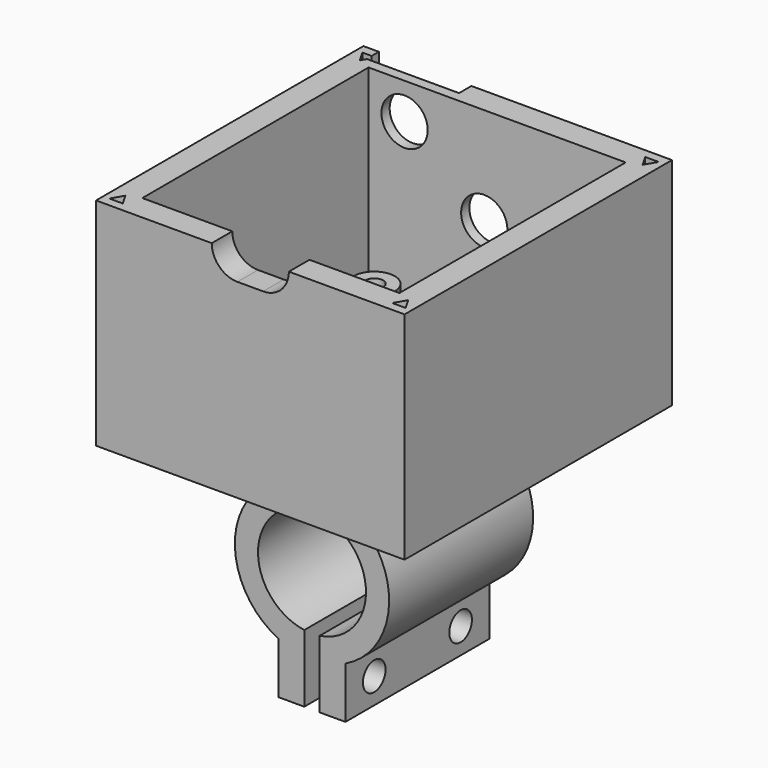
from build123d import *

# Parameters (mm, degrees)
SKETCH_W        = 60
SKETCH_H        = 65
PAD_DEPTH       = 42
SKETCH001_W     = 50
SKETCH001_H     = 55
POCKET_DEPTH    = 37
SKETCH002_R     = 1.75
POCKET001_DEPTH = 5
SKETCH003_R     = 4
SKETCH003_R_2   = 1.75
PAD001_DEPTH    = 4
SKETCH004_R     = 4.5
POCKET002_DEPTH = 5
SKETCH005_R     = 8.5
POCKET003_DEPTH = 3
POCKET004_DEPTH = 30
POCKET005_DEPTH = 5
PAD002_DEPTH    = 17.5
SKETCH009_R     = 2.75
POCKET006_DEPTH = 36.501
SKETCH010_R     = 4.5
POCKET007_DEPTH = 5
POCKET008_DEPTH = 3
SKETCH012_R     = 1.5
POCKET009_DEPTH = 5


with BuildPart() as part:
    # Sketch → Pad (new body)
    with BuildSketch(Plane.XY):
        Rectangle(SKETCH_W, SKETCH_H)
    extrude(amount=PAD_DEPTH)

    # Sketch001 (on Face6 of Pad) → Pocket (cut)
    with BuildSketch(Plane.XY.offset(42)):
        Rectangle(SKETCH001_W, SKETCH001_H)
    extrude(amount=-POCKET_DEPTH, mode=Mode.SUBTRACT)

    # Sketch002 (on Face4 of Pocket) → Pocket001 (cut)
    with BuildSketch(Plane(origin=(0, 0, 0), x_dir=(1, 0, 0), z_dir=(0, 0, -1))):
        with Locations((-19.5, -22)):
            Circle(SKETCH002_R)
        with Locations((19.5, 22)):
            Circle(SKETCH002_R)
    extrude(amount=-POCKET001_DEPTH, mode=Mode.SUBTRACT)

    # Sketch003 (on Face13 of Pocket001) → Pad001 (join)
    with BuildSketch(Plane.XY.offset(5)):
        with Locations((-19.5, 22)):
            Circle(SKETCH003_R)
        with Locations((-19.5, 22)):
            Circle(SKETCH003_R_2, mode=Mode.SUBTRACT)
        with Locations((19.5, -22)):
            Circle(SKETCH003_R)
        with Locations((19.5, -22)):
            Circle(SKETCH003_R_2, mode=Mode.SUBTRACT)
    extrude(amount=PAD001_DEPTH)

    # Sketch004 (on Face1 of Pad001) → Pocket002 (cut)
    with BuildSketch(Plane(origin=(0, 32.5, 0), x_dir=(-1, 0, 0), z_dir=(0, 1, 0))):
        with Locations((2.5, 23)):
            Circle(SKETCH004_R)
    extrude(amount=-POCKET002_DEPTH, mode=Mode.SUBTRACT)

    # Sketch005 (on Face1 of Pocket002) → Pocket003 (cut)
    with BuildSketch(Plane(origin=(0, 32.5, 0), x_dir=(-1, 0, 0), z_dir=(0, 1, 0))):
        with Locations((2.5, 23)):
            Circle(SKETCH005_R)
    extrude(amount=-POCKET003_DEPTH, mode=Mode.SUBTRACT)

    # Sketch006 (on Face4 of Pocket003) → Pocket004 (cut)
    with BuildSketch(Plane.XY.offset(42)):
        Polygon((-27.5, 28.5), (-26.200962, 30.75), (-28.799038, 30.75), align=None)
        Polygon((27.5, 28.5), (28.799038, 30.75), (26.200962, 30.75), align=None)
        Polygon((28.799038, -30.75), (27.5, -28.5), (26.200962, -30.75), align=None)
        Polygon((-26.200962, -30.75), (-27.5, -28.5), (-28.799038, -30.75), align=None)
    extrude(amount=-POCKET004_DEPTH, mode=Mode.SUBTRACT)

    # Sketch007 (on Face7 of Pocket004) → Pocket005 (cut)
    with BuildSketch(Plane.XZ.offset(32.5)):
        with BuildLine():
            Line((-7.5, 42), (7.5, 42))
            ThreePointArc((2.5, 37), (6.035534, 38.464466), (7.5, 42))
            Line((-2.5, 37), (2.5, 37))
            ThreePointArc((-7.5, 42), (-6.035534, 38.464466), (-2.5, 37))
        make_face()
    extrude(amount=-POCKET005_DEPTH, mode=Mode.SUBTRACT)

    # Sketch008 (on DatumPlane) → Pad002 (join, symmetric)
    with BuildSketch(Plane.XZ):
        with BuildLine():
            Line((-7.5, 0), (7.5, 0))
            Line((7.5, 0), (7.5, -5))
            ThreePointArc((6.5, -31.508887), (14.989339, -18.555827), (7.5, -5))
            Line((6.5, -31.508887), (6.5, -41.508887))
            Line((6.5, -41.508887), (1.5, -41.508887))
            Line((1.5, -41.508887), (1.5, -28.382686))
            ThreePointArc((1.5, -28.382686), (0, -7.490381), (-1.5, -28.382686))
            Line((-1.5, -41.508887), (-1.5, -28.382686))
            Line((-6.5, -41.508887), (-1.5, -41.508887))
            Line((-6.5, -31.508887), (-6.5, -41.508887))
            ThreePointArc((-7.5, -5), (-14.989339, -18.555827), (-6.5, -31.508887))
            Line((-7.5, 0), (-7.5, -5))
        make_face()
    extrude(amount=PAD002_DEPTH, both=True)

    # Sketch009 (on Face36 of Pad002) → Pocket006 (cut, through all)
    with BuildSketch(Plane.YZ.offset(6.5)):
        with Locations((-10.5, -36.508887)):
            Circle(SKETCH009_R)
        with Locations((10.5, -36.508887)):
            Circle(SKETCH009_R)
    extrude(amount=-POCKET006_DEPTH, mode=Mode.SUBTRACT)

    # Sketch010 (on Face1 of Pocket006) → Pocket007 (cut)
    with BuildSketch(Plane(origin=(0, 32.5, 0), x_dir=(-1, 0, 0), z_dir=(0, 1, 0))):
        with Locations((18, 35)):
            Circle(SKETCH010_R)
    extrude(amount=-POCKET007_DEPTH, mode=Mode.SUBTRACT)

    # Sketch011 (on Face1 of Pocket007) → Pocket008 (cut)
    with BuildSketch(Plane(origin=(0, 32.5, 0), x_dir=(-1, 0, 0), z_dir=(0, 1, 0))):
        with BuildLine():
            Line((9, 42), (27, 42))
            Line((27, 42), (27, 32))
            ThreePointArc((9, 32), (18, 26.358899), (27, 32))
            Line((9, 42), (9, 32))
        make_face()
    extrude(amount=-POCKET008_DEPTH, mode=Mode.SUBTRACT)

    # Sketch012 (on Face20 of Pocket008) → Pocket009 (cut)
    with BuildSketch(Plane.XZ.offset(-27.5)):
        with Locations((6, 23)):
            Circle(SKETCH012_R)
    extrude(amount=-POCKET009_DEPTH, mode=Mode.SUBTRACT)


solid = part.part
